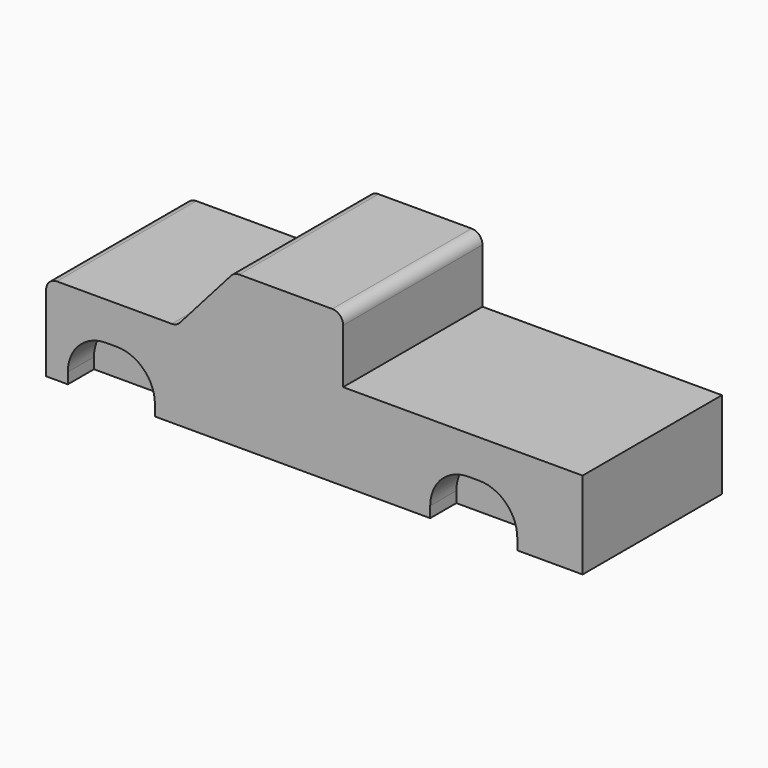
from build123d import *

# Parameters (mm, degrees)
F1_DEPTH = 50.8
F3_DEPTH = 19.05


with BuildPart() as f1:
    # F0 (on Front) → F1 (new body, symmetric)
    with BuildSketch(Plane.XZ):
        with BuildLine():
            Line((-71.399881, 25.841707), (-138.383388, 25.841707))
            ThreePointArc((-138.383388, 25.841707), (-142.873516, 23.981835), (-144.733388, 19.491707))
            Line((-144.733388, 19.491707), (-144.733388, -24.958293))
            Line((-144.733388, -24.958293), (-119.333388, -24.958293))
            Line((-119.333388, -24.958293), (-119.333388, -18.608293))
            ThreePointArc((-119.333388, -18.608293), (-112.823836, -2.892845), (-97.108388, 3.616707))
            Line((-97.108388, 3.616707), (-90.758388, 3.616707))
            ThreePointArc((-90.758388, 3.616707), (-75.042939, -2.892845), (-68.533388, -18.608293))
            Line((-68.533388, -18.608293), (-68.533388, -24.958293))
            Line((-68.533388, -24.958293), (83.866612, -24.958293))
            Line((83.866612, -24.958293), (83.866612, -18.608293))
            ThreePointArc((83.866612, -18.608293), (90.376164, -2.892845), (106.091612, 3.616707))
            Line((106.091612, 3.616707), (112.441612, 3.616707))
            ThreePointArc((112.441612, 3.616707), (128.157061, -2.892845), (134.666612, -18.608293))
            Line((134.666612, -18.608293), (134.666612, -24.958293))
            Line((134.666612, -24.958293), (168.267654, -24.958293))
            Line((168.267654, -24.958293), (168.267654, 25.841707))
            Line((168.267654, 25.841707), (28.567654, 25.841707))
            Line((28.567654, 25.841707), (28.567654, 57.591707))
            ThreePointArc((28.567654, 57.591707), (26.707782, 62.081835), (22.217654, 63.941707))
            Line((22.217654, 63.941707), (-32.065853, 63.941707))
            ThreePointArc((-32.065853, 63.941707), (-34.678483, 63.379337), (-36.828353, 61.791837))
            Line((-36.828353, 61.791837), (-66.637381, 27.991577))
            ThreePointArc((-66.637381, 27.991577), (-68.78725, 26.404077), (-71.399881, 25.841707))
        make_face()
        with BuildLine():
            Line((-119.333388, -18.608293), (-119.333388, -24.958293))
            Line((-119.333388, -24.958293), (-68.533388, -24.958293))
            Line((-68.533388, -24.958293), (-68.533388, -18.608293))
            ThreePointArc((-68.533388, -18.608293), (-75.042939, -2.892845), (-90.758388, 3.616707))
            Line((-90.758388, 3.616707), (-97.108388, 3.616707))
            ThreePointArc((-97.108388, 3.616707), (-112.823836, -2.892845), (-119.333388, -18.608293))
        make_face()
        with BuildLine():
            Line((83.866612, -18.608293), (83.866612, -24.958293))
            Line((83.866612, -24.958293), (134.666612, -24.958293))
            Line((134.666612, -24.958293), (134.666612, -18.608293))
            ThreePointArc((134.666612, -18.608293), (128.157061, -2.892845), (112.441612, 3.616707))
            Line((112.441612, 3.616707), (106.091612, 3.616707))
            ThreePointArc((106.091612, 3.616707), (90.376164, -2.892845), (83.866612, -18.608293))
        make_face()
    extrude(amount=F1_DEPTH, both=True)

    # F2 (on face) → F3 (cut)
    with BuildSketch(Plane.XZ.offset(50.8)):
        with BuildLine():
            Line((-132.033388, -18.608293), (-132.033388, -24.958293))
            Line((-132.033388, -24.958293), (-81.233388, -24.958293))
            Line((-81.233388, -24.958293), (-81.233388, -18.608293))
            ThreePointArc((-81.233388, -18.608293), (-87.742939, -2.892845), (-103.458388, 3.616707))
            Line((-103.458388, 3.616707), (-109.808388, 3.616707))
            ThreePointArc((-109.808388, 3.616707), (-125.523836, -2.892845), (-132.033388, -18.608293))
        make_face()
        with BuildLine():
            Line((79.367654, -18.608293), (79.367654, -24.958293))
            Line((79.367654, -24.958293), (130.167654, -24.958293))
            Line((130.167654, -24.958293), (130.167654, -18.608293))
            ThreePointArc((130.167654, -18.608293), (123.658102, -2.892845), (107.942654, 3.616707))
            Line((107.942654, 3.616707), (101.592654, 3.616707))
            ThreePointArc((101.592654, 3.616707), (85.877206, -2.892845), (79.367654, -18.608293))
        make_face()
    extrude(amount=-F3_DEPTH, mode=Mode.SUBTRACT)


solid = f1.part
